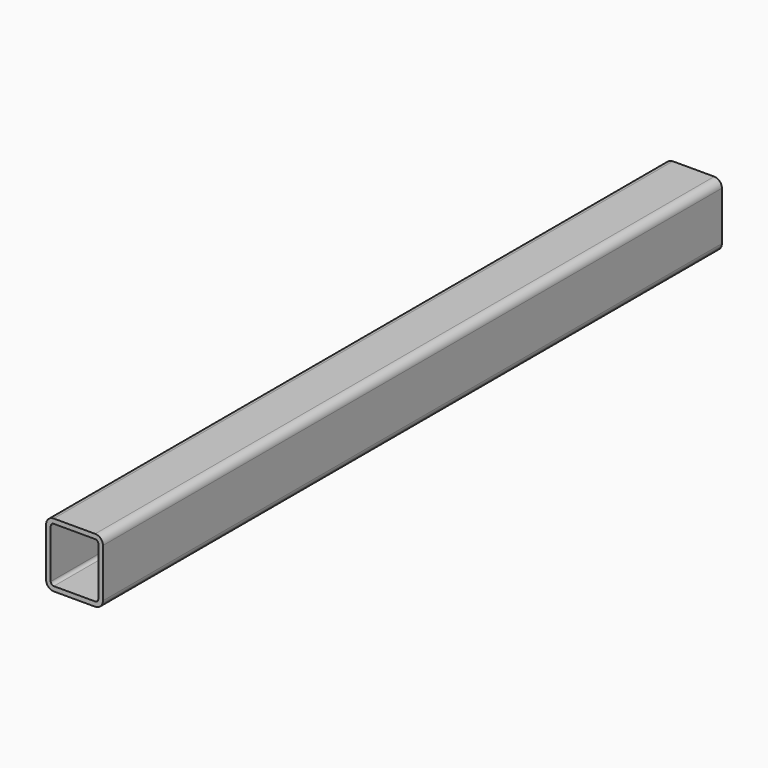
from build123d import *

# Parameters (mm, degrees)
F0_W     = 36.736786
F0_H     = 41.465297
F1_DEPTH = 500
F2_R     = 5
F3_T     = -3


with BuildPart() as f1:
    # F0 (on Front) → F1 (new body)
    with BuildSketch(Plane.XZ):
        with Locations((18.368393, 20.732648)):
            Rectangle(F0_W, F0_H)
    extrude(amount=F1_DEPTH)

    # F2
    f2_edges = [f1.edges().sort_by_distance(p)[0] for p in [
        (36.736786, -250, 41.465297),
        (0, -250, 41.465297),
        (36.736786, -250, 0),
        (0, -250, 0),
    ]]
    fillet(f2_edges, radius=F2_R)

    # F3
    f3_openings = [f1.faces().sort_by_distance(p)[0] for p in [
        (18.368393, -500, 20.732649),
        (18.368393, 0, 20.732649),
    ]]
    offset(amount=F3_T, openings=f3_openings)


solid = f1.part
